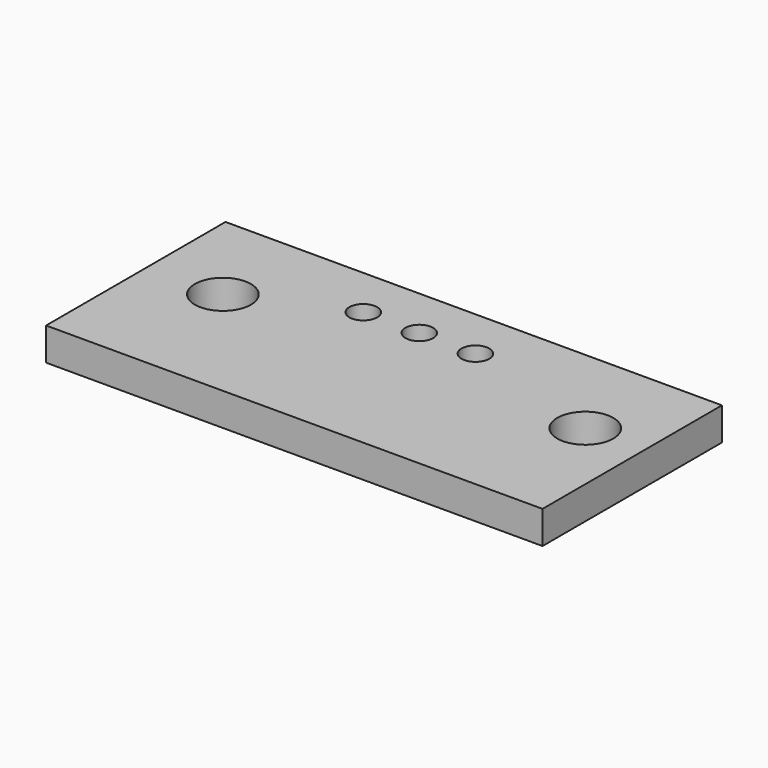
from build123d import *

# Parameters (mm, degrees)
F0_W     = 140.5636
F0_H     = 63.5
F0_R     = 7.9375
F0_R_2   = 3.937
F1_DEPTH = 9.271


with BuildPart() as f1:
    # F0 (on Top) → F1 (new body)
    with BuildSketch(Plane.XY):
        with Locations((70.2818, 31.75)):
            Rectangle(F0_W, F0_H)
        with Locations((21.209, 36.068)):
            Circle(F0_R, mode=Mode.SUBTRACT)
        with Locations((50.8, 48.768)):
            Circle(F0_R_2, mode=Mode.SUBTRACT)
        with Locations((66.675, 48.768)):
            Circle(F0_R_2, mode=Mode.SUBTRACT)
        with Locations((123.825, 36.068)):
            Circle(F0_R, mode=Mode.SUBTRACT)
        with Locations((82.55, 48.768)):
            Circle(F0_R_2, mode=Mode.SUBTRACT)
    extrude(amount=F1_DEPTH)


solid = f1.part
